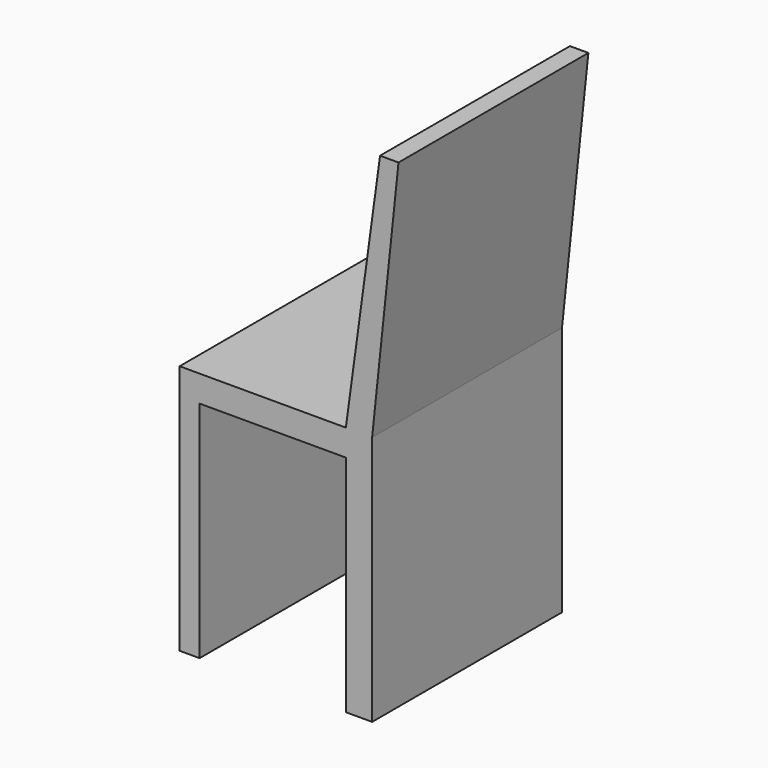
from build123d import *

# Parameters (mm, degrees)
F0_W     = 450
F0_H     = 450
F1_DEPTH = 950
F2_W     = 35
F2_H     = 50
F2_H_2   = 425
F2_W_2   = 277.230935
F2_W_3   = 50
F3_DEPTH = 450.001


with BuildPart() as f1:
    # F0 (on Top) → F1 (new body)
    with BuildSketch(Plane.XY):
        Rectangle(F0_W, F0_H)
    extrude(amount=F1_DEPTH)

    # F2 (on face) → F3 (cut, through all)
    with BuildSketch(Plane.XZ.offset(225)):
        Polygon((-225, 950), (-225, 475), (-190, 475), (125.13599, 475), (190, 950), align=None)
        with Locations((-207.5, 450)):
            Rectangle(F2_W, F2_H)
        with Locations((-207.5, 212.5)):
            Rectangle(F2_W, F2_H_2)
        with Locations((-13.479478, 212.5)):
            Rectangle(F2_W_2, F2_H_2)
        with Locations((200, 212.5)):
            Rectangle(F2_W_3, F2_H_2)
        Polygon((225, 950), (175, 475), (225, 475), align=None)
        with Locations((200, 450)):
            Rectangle(F2_W_3, F2_H)
    extrude(amount=-F3_DEPTH, mode=Mode.SUBTRACT)


solid = f1.part
